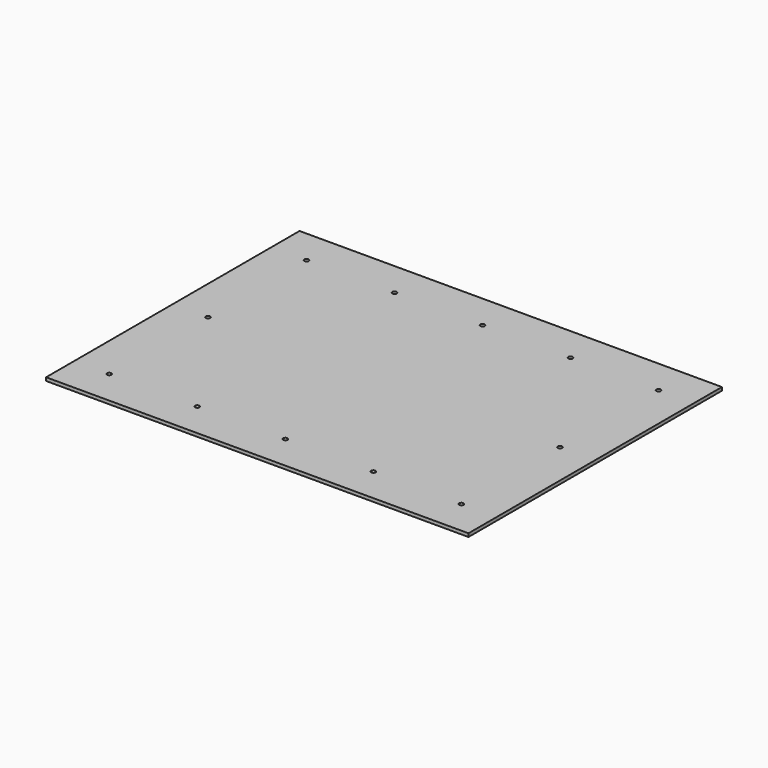
from build123d import *

# Parameters (mm, degrees)
F0_W     = 609.6
F0_H     = 457.2
F0_R     = 3.175
F1_DEPTH = 4.7625


with BuildPart() as f1:
    # F0 (on Top) → F1 (new body)
    with BuildSketch(Plane.XY):
        Rectangle(F0_W, F0_H)
        with Locations((-254, -177.8)):
            Circle(F0_R, mode=Mode.SUBTRACT)
        with Locations((-127, -177.8)):
            Circle(F0_R, mode=Mode.SUBTRACT)
        with Locations((0, -177.8)):
            Circle(F0_R, mode=Mode.SUBTRACT)
        with Locations((127, -177.8)):
            Circle(F0_R, mode=Mode.SUBTRACT)
        with Locations((254, -177.8)):
            Circle(F0_R, mode=Mode.SUBTRACT)
        with Locations((-254, 0)):
            Circle(F0_R, mode=Mode.SUBTRACT)
        with Locations((-254, 177.8)):
            Circle(F0_R, mode=Mode.SUBTRACT)
        with Locations((-127, 177.8)):
            Circle(F0_R, mode=Mode.SUBTRACT)
        with Locations((254, 0)):
            Circle(F0_R, mode=Mode.SUBTRACT)
        with Locations((0, 177.8)):
            Circle(F0_R, mode=Mode.SUBTRACT)
        with Locations((127, 177.8)):
            Circle(F0_R, mode=Mode.SUBTRACT)
        with Locations((254, 177.8)):
            Circle(F0_R, mode=Mode.SUBTRACT)
    extrude(amount=F1_DEPTH)


solid = f1.part
